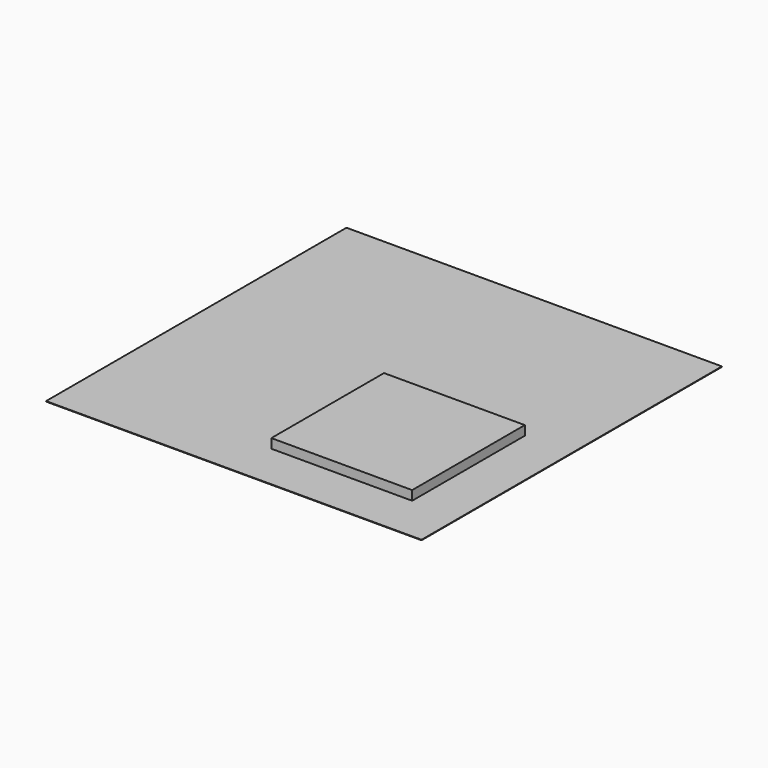
from build123d import *

# Parameters (mm, degrees)
F0_W     = 8000
F0_H     = 8000
F1_DEPTH = 10
F2_W     = 3000
F2_H     = 3000
F3_DEPTH = 200


with BuildPart() as f1:
    # F0 (on Top) → F1 (new body)
    with BuildSketch(Plane.XY):
        Rectangle(F0_W, F0_H)
    extrude(amount=-F1_DEPTH)


with BuildPart() as f3:
    # F2 (on face) → F3 (new body)
    with BuildSketch(Plane.XY):
        with Locations((1500, -1500)):
            Rectangle(F2_W, F2_H)
    extrude(amount=F3_DEPTH)


solid = Compound([f1.part, f3.part])
